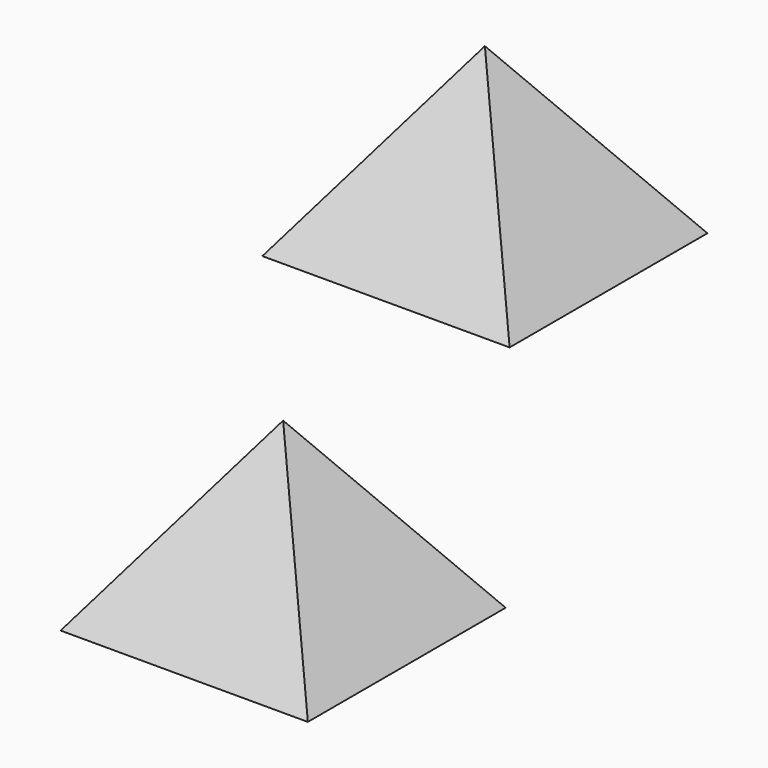
from build123d import *

# Parameters (mm, degrees)
F0_W = 1
F0_H = 1
F7_W = 1
F7_H = 1


with BuildPart() as f6:
    # F0 (on Top) → F6 section 0
    with BuildSketch(Plane.XY, mode=Mode.PRIVATE) as f6_s0:
        Rectangle(F0_W, F0_H)
    loft([f6_s0.sketch, Vertex(0, 0, 0.7071067812)])


with BuildPart() as f10:
    # F7 (on Top) → F10 section 0
    with BuildSketch(Plane.XY, mode=Mode.PRIVATE) as f10_s0:
        with Locations((-1.1024075793, 2.3979991106)):
            Rectangle(F7_W, F7_H)
    loft([f10_s0.sketch, Vertex(-1.1024075793, 2.3979991106, 0.7071067812)])


solid = Compound([f6.part, f10.part])
